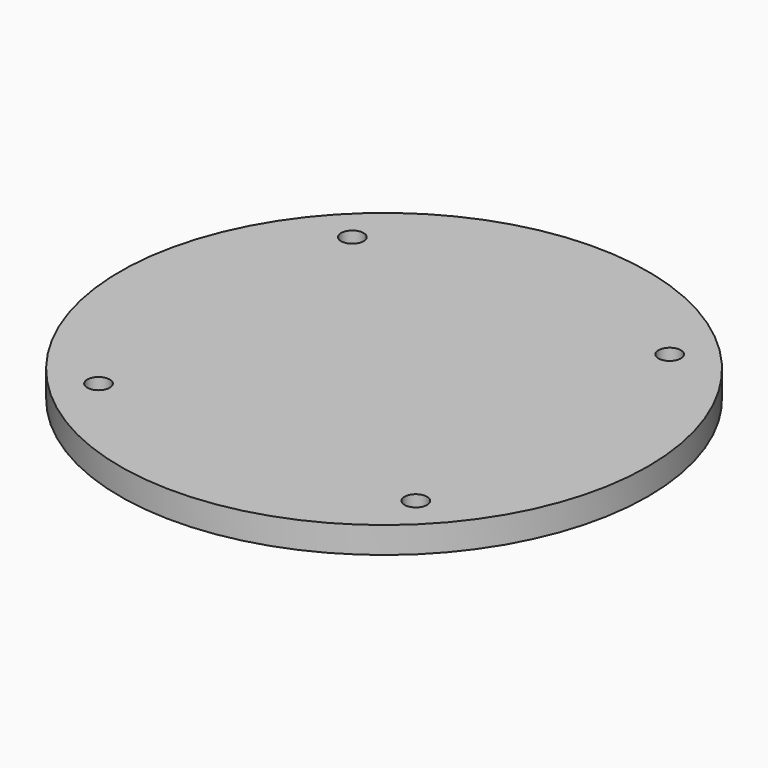
from build123d import *

# Parameters (mm, degrees)
F1_R     = 100
F2_DEPTH = 10
F3_D     = 8.5


with BuildPart() as f2:
    # F1 (on Top) → F2 (new body)
    with BuildSketch(Plane.XY):
        Circle(F1_R)
    extrude(amount=F2_DEPTH)

    # F3 (through all)
    with Locations(Plane(origin=(0, 0, 0), x_dir=(1, 0, 0), z_dir=(0, 0, -1))):
        with Locations((-60.104076, 60.104076), (60.104076, 60.104076), (60.104076, -60.104076), (-60.104076, -60.104076)):
            Hole(F3_D / 2)


solid = f2.part
